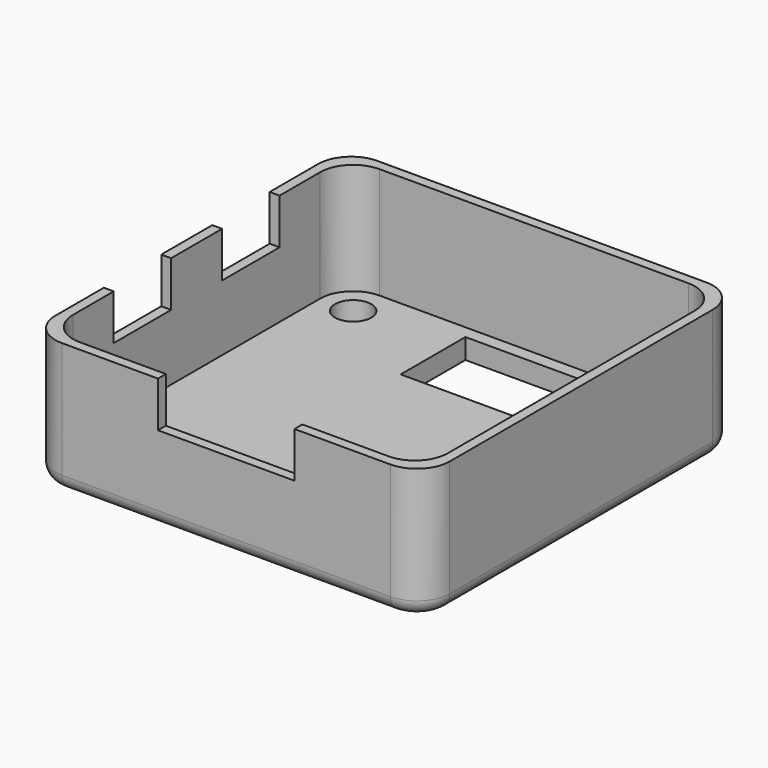
from build123d import *

# Parameters (mm, degrees)
F0_W      = 39
F0_H      = 39
F1_DEPTH  = 13
F3_R      = 3.25
F5_DEPTH  = 11
F2_R      = 1.8
F2_W      = 17
F2_H      = 8
F6_DEPTH  = 13.001
F7_R      = 1.5
F12_W     = 7.1
F12_H     = 4.5
F13_DEPTH = 0.97705
F14_W     = 13.5
F14_H     = 4.5
F15_DEPTH = 0.97705


with BuildPart() as f1:
    # F0 (on Top) → F1 (new body)
    with BuildSketch(Plane.XY):
        Rectangle(F0_W, F0_H)
    extrude(amount=-F1_DEPTH)

    # F3
    f3_edges = [f1.edges().sort_by_distance(p)[0] for p in [
        (-19.5, -19.5, -6.5),
        (19.5, -19.5, -6.5),
        (19.5, 19.5, -6.5),
        (-19.5, 19.5, -6.5),
    ]]
    fillet(f3_edges, radius=F3_R)

    # F4 (on Top) → F5 (cut)
    with BuildSketch(Plane.XY):
        with BuildLine():
            ThreePointArc((-18.52295, -15.27295), (-17.571047, -17.571047), (-15.27295, -18.52295))
            Line((-15.27295, -18.52295), (15.27295, -18.52295))
            ThreePointArc((15.27295, -18.52295), (17.571047, -17.571047), (18.52295, -15.27295))
            Line((18.52295, -15.27295), (18.52295, 15.27295))
            ThreePointArc((18.52295, 15.27295), (17.571047, 17.571047), (15.27295, 18.52295))
            Line((15.27295, 18.52295), (-15.27295, 18.52295))
            ThreePointArc((-15.27295, 18.52295), (-17.571047, 17.571047), (-18.52295, 15.27295))
            Line((-18.52295, 15.27295), (-18.52295, -15.27295))
        make_face()
    extrude(amount=-F5_DEPTH, mode=Mode.SUBTRACT)

    # F2 (on face) → F6 (cut, through all)
    with BuildSketch(Plane(origin=(0, 0, -13), x_dir=(1, 0, 0), z_dir=(0, 0, -1))):
        with Locations((-15.25, 15.25)):
            Circle(F2_R)
        with Locations((15.25, 15.25)):
            Circle(F2_R)
        with Locations((-15.25, -15.25)):
            Circle(F2_R)
        with Locations((15.25, -15.25)):
            Circle(F2_R)
        with Locations((2.75, -13.25)):
            Rectangle(F2_W, F2_H)
    extrude(amount=-F6_DEPTH, mode=Mode.SUBTRACT)

    # F7
    f7_edges = [f1.edges().sort_by_distance(p)[0] for p in [
        (0, -19.5, -13),
    ]]
    fillet(f7_edges, radius=F7_R)

    # F12 (on face) → F13 (cut, through all)
    with BuildSketch(Plane(origin=(-19.5, 0, 0), x_dir=(0, -1, 0), z_dir=(-1, 0, 0))):
        with Locations((6.7, -2.25)):
            Rectangle(F12_W, F12_H)
        with Locations((-6.7, -2.25)):
            Rectangle(F12_W, F12_H)
    extrude(amount=-F13_DEPTH, mode=Mode.SUBTRACT)

    # F14 (on face) → F15 (cut, through all)
    with BuildSketch(Plane.XZ.offset(19.5)):
        with Locations((0, -2.25)):
            Rectangle(F14_W, F14_H)
    extrude(amount=-F15_DEPTH, mode=Mode.SUBTRACT)


solid = f1.part
